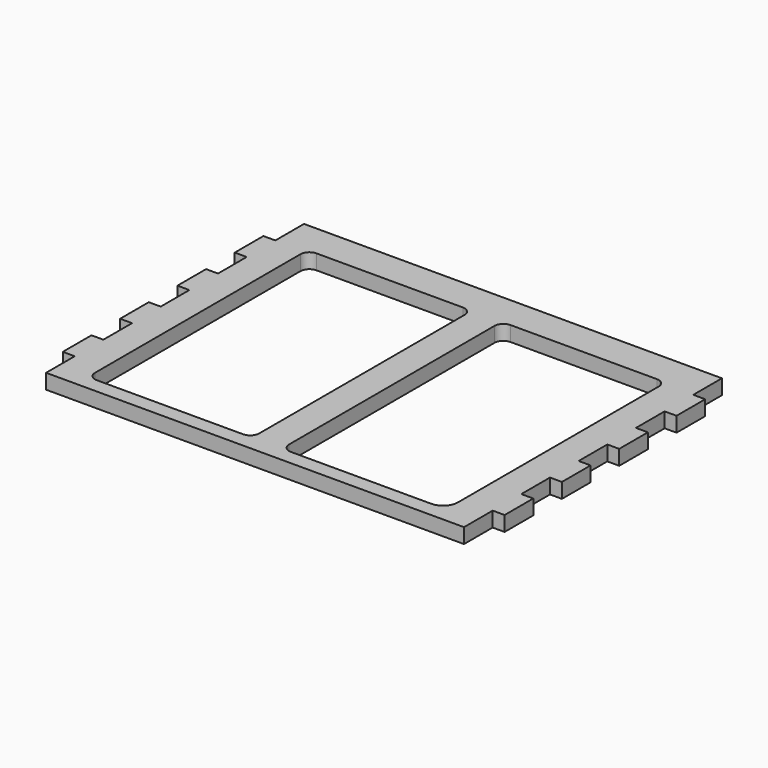
from build123d import *

# Parameters (mm, degrees)
F1_DEPTH = 6.35


with BuildPart() as f1:
    # F0 (on Top) → F1 (new body)
    with BuildSketch(Plane.XY):
        Polygon((66.432887, 60.035508), (66.432887, 75.275508), (-111.367113, 75.275508), (-111.367113, 60.035508), (-116.447113, 60.035508), (-116.447113, 44.795508), (-111.367113, 44.795508), (-111.367113, 29.555508), (-116.447113, 29.555508), (-116.447113, 14.315508), (-111.367113, 14.315508), (-111.367113, -0.924492), (-116.447113, -0.924492), (-116.447113, -16.164492), (-111.367113, -16.164492), (-111.367113, -31.404492), (-116.447113, -31.404492), (-116.447113, -46.644492), (-111.367113, -46.644492), (-111.367113, -61.884492), (66.432887, -61.884492), (66.432887, -46.644492), (71.512887, -46.644492), (71.512887, -31.404492), (66.432887, -31.404492), (66.432887, -16.164492), (71.512887, -16.164492), (71.512887, -0.924492), (66.432887, -0.924492), (66.432887, 14.315508), (71.512887, 14.315508), (71.512887, 29.555508), (66.432887, 29.555508), (66.432887, 44.795508), (71.512887, 44.795508), (71.512887, 60.035508), align=None)
        with BuildLine():
            ThreePointArc((-98.667113, 57.495508), (-97.55119, 60.189585), (-94.857113, 61.305508))
            Line((-94.857113, 61.305508), (-32.627113, 61.305508))
            ThreePointArc((-32.627113, 61.305508), (-29.933036, 60.189585), (-28.817113, 57.495508))
            Line((-28.817113, 57.495508), (-28.817113, -51.724492))
            ThreePointArc((-28.817113, -51.724492), (-29.933036, -54.418569), (-32.627113, -55.534492))
            Line((-32.627113, -55.534492), (-94.857113, -55.534492))
            ThreePointArc((-94.857113, -55.534492), (-97.55119, -54.418569), (-98.667113, -51.724492))
            Line((-98.667113, -51.724492), (-98.667113, 57.495508))
        make_face(mode=Mode.SUBTRACT)
        with BuildLine():
            ThreePointArc((-16.117113, 57.495508), (-15.00119, 60.189585), (-12.307113, 61.305508))
            Line((-12.307113, 61.305508), (49.922887, 61.305508))
            ThreePointArc((49.922887, 61.305508), (52.616964, 60.189585), (53.732887, 57.495508))
            Line((53.732887, 57.495508), (53.732887, -49.184492))
            ThreePointArc((53.732887, -49.184492), (51.873015, -53.67462), (47.382887, -55.534492))
            Line((47.382887, -55.534492), (-12.307113, -55.534492))
            ThreePointArc((-12.307113, -55.534492), (-15.00119, -54.418569), (-16.117113, -51.724492))
            Line((-16.117113, -51.724492), (-16.117113, 57.495508))
        make_face(mode=Mode.SUBTRACT)
    extrude(amount=F1_DEPTH)


solid = f1.part
